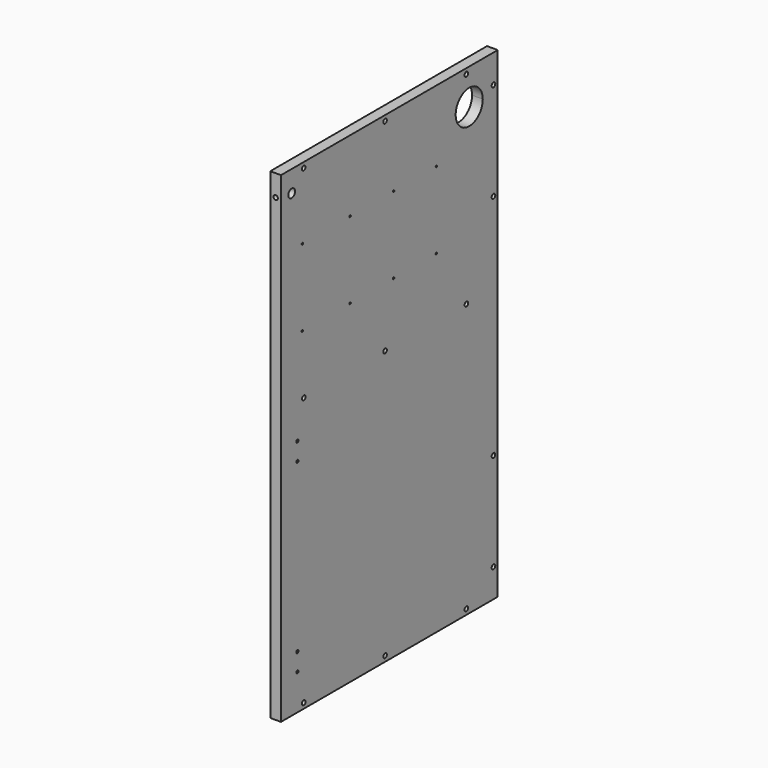
from build123d import *

# Parameters (mm, degrees)
F0_W      = 482.6
F0_H      = 857.25
F1_DEPTH  = 19.05
F3_D      = 8.001
F3_DEPTH  = 14.224
F3_TIP    = 2.4037429064
F5_D      = 15.0114
F5_DEPTH  = 14.224
F5_TIP    = 4.5098795482
F7_D      = 8.001
F7_DEPTH  = 25.4
F7_TIP    = 2.4037429064
F9_D      = 3.175
F9_DEPTH  = 14.224
F9_TIP    = 0.9538662327
F10_D     = 5.0038
F10_DEPTH = 14.224
F10_TIP   = 1.5032931827
F12_DEPTH = 25.4
F13_D     = 8.001
F13_DEPTH = 14.224
F13_TIP   = 2.4037429064


with BuildPart() as f1:
    # F0 (on Right) → F1 (new body)
    with BuildSketch(Plane.YZ):
        Rectangle(F0_W, F0_H)
    extrude(amount=F1_DEPTH)

    # F3
    with Locations(Plane.YZ.offset(19.05)):
        with Locations((-190.5, 419.1), (-9.525, 419.1), (171.45, 419.1), (231.775, 377.825), (231.775, 203.2), (231.775, -203.2), (231.775, -377.825), (171.45, -419.1), (-9.525, -419.1), (-190.5, -419.1)):
            Hole(F3_D / 2, depth=F3_DEPTH)
            with Locations((0, 0, -(F3_DEPTH + F3_TIP / 2))):  # 118° drill point
                Cone(0, F3_D / 2, F3_TIP, mode=Mode.SUBTRACT)

    # F5
    with Locations(Plane.YZ.offset(19.05)):
        with Locations((-217.424, 390.525)):
            Hole(F5_D / 2, depth=F5_DEPTH)
            with Locations((0, 0, -(F5_DEPTH + F5_TIP / 2))):  # 118° drill point
                Cone(0, F5_D / 2, F5_TIP, mode=Mode.SUBTRACT)

    # F7
    with Locations(Plane.XZ.offset(241.3)):
        with Locations((9.525, 390.525)):
            Hole(F7_D / 2, depth=F7_DEPTH)
            with Locations((0, 0, -(F7_DEPTH + F7_TIP / 2))):  # 118° drill point
                Cone(0, F7_D / 2, F7_TIP, mode=Mode.SUBTRACT)

    # F9
    with Locations(Plane.YZ.offset(19.05)):
        with Locations((-193.675, 301.625), (-87.376, 301.625), (104.775, 301.625), (104.775, 165.1), (9.525, 165.1), (-87.376, 165.1), (9.525, 301.625), (-193.675, 165.1)):
            Hole(F9_D / 2, depth=F9_DEPTH)
            with Locations((0, 0, -(F9_DEPTH + F9_TIP / 2))):  # 118° drill point
                Cone(0, F9_D / 2, F9_TIP, mode=Mode.SUBTRACT)

    # F10
    with Locations(Plane.YZ.offset(19.05)):
        with Locations((-204.724, -3.175), (-204.724, -34.925), (-204.724, -333.375), (-204.724, -365.125)):
            Hole(F10_D / 2, depth=F10_DEPTH)
            with Locations((0, 0, -(F10_DEPTH + F10_TIP / 2))):  # 118° drill point
                Cone(0, F10_D / 2, F10_TIP, mode=Mode.SUBTRACT)

    # F11 (on face) → F12 (cut)
    with BuildSketch(Plane.YZ.offset(19.05)):
        with BuildLine():
            ThreePointArc((207.9625, 365.125), (199.1281082875, 386.4531082875), (177.8, 395.2875))
            ThreePointArc((177.8, 395.2875), (156.4718917125, 343.7968917125), (207.9625, 365.125))
        make_face()
    extrude(amount=-F12_DEPTH, mode=Mode.SUBTRACT)

    # F13
    with Locations(Plane.YZ.offset(19.05)):
        with Locations((-190.5, 58.7375), (-9.525, 58.7375), (171.45, 58.7375)):
            Hole(F13_D / 2, depth=F13_DEPTH)
            with Locations((0, 0, -(F13_DEPTH + F13_TIP / 2))):  # 118° drill point
                Cone(0, F13_D / 2, F13_TIP, mode=Mode.SUBTRACT)


solid = f1.part
